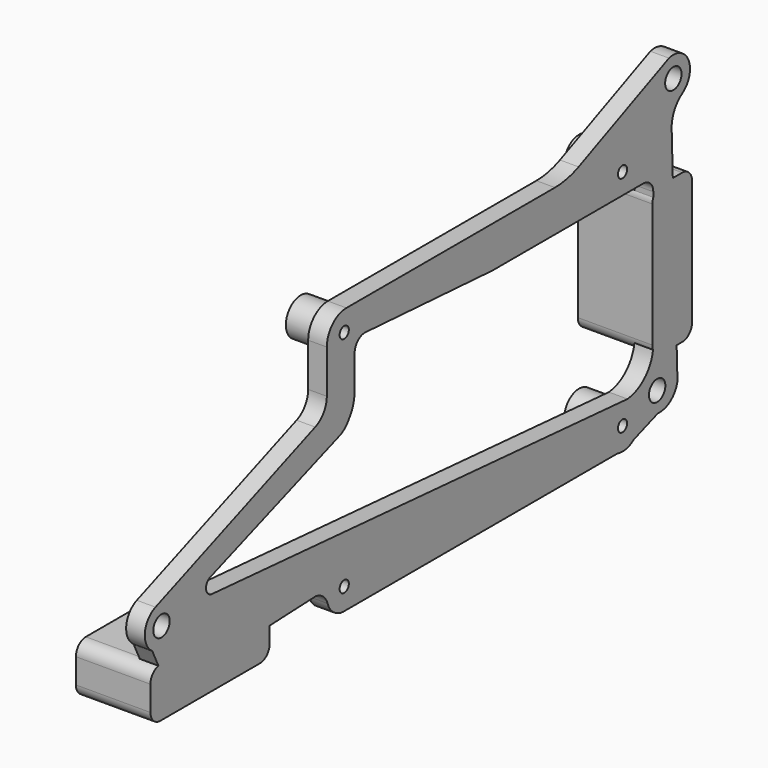
from build123d import *

# Parameters (mm, degrees)
CYLINDER003_R            = 2.65
CYLINDER003_DEPTH        = 9
CLONE009_PLACEMENT_ANGLE = 90
BOX002_W                 = 12
BOX002_H                 = 24
BOX002_DEPTH             = 8
FILLET_R                 = 2
CYLINDER002_R            = 0.925
CYLINDER002_DEPTH        = 7
CYLINDER001_R            = 3
CYLINDER001_DEPTH        = 7
SKETCH002_R              = 1.65
EXTRUDE002_DEPTH         = 3
CLONE010_PLACEMENT_ANGLE = 90


with BuildPart() as insert001:
    # Cylinder003 → Cylinder003 (new body)
    with BuildSketch(Plane(origin=(24, -35, 3), x_dir=(0, 0, 1), z_dir=(-1, 0, 0))):
        Circle(CYLINDER003_R)
    extrude(amount=CYLINDER003_DEPTH)


with BuildPart() as insert002:
    # Clone006 base: copy of insert001
    add(insert001.part)


with BuildPart() as insert002_1:
    # Clone006 placement: moved
    add(insert002.part.moved(Location((0, -16, 0))))


with BuildPart() as obj1:
    # Fusion002 base: copy of insert001
    add(insert001.part)

    # Fusion002: union insert002
    add(insert002_1.part)


with BuildPart() as obj1_1:
    # Fusion002 placement: moved
    add(obj1.part.moved(Location((0, 0, -3))))


with BuildPart() as insertsfusion003:
    # Clone009 base: copy of obj1
    add(obj1_1.part)


with BuildPart() as insertsfusion003_1:
    # Clone009 placement: moved
    add(insertsfusion003.part.moved(Location((0, 50, 62))).rotate(Axis((0, 50, 62), (1, 0, 0)), CLONE009_PLACEMENT_ANGLE))

    # Fusion003: union obj1
    add(obj1_1.part)


with BuildPart() as obj2:
    # Box002 → Box002 (new body)
    with BuildSketch(Plane(origin=(15, -55, -1), x_dir=(1, 0, 0), z_dir=(0, 0, 1))):
        with Locations((6, 12)):
            Rectangle(BOX002_W, BOX002_H)
    extrude(amount=BOX002_DEPTH)

    # Fillet
    fillet_edges = [obj2.edges().sort_by_distance(p)[0] for p in [
        (21, -55, -1),
        (21, -55, 7),
        (21, -31, -1),
        (21, -31, 7),
    ]]
    fillet(fillet_edges, radius=FILLET_R)


with BuildPart() as obj2_1:
    # Fillet placement: moved
    add(obj2.part.moved(Location((0, 0, -3))))


with BuildPart() as hole002:
    # Cylinder002 → Cylinder002 (new body)
    with BuildSketch(Plane(origin=(27, -16, 0), x_dir=(0, 0, 1), z_dir=(-1, 0, 0))):
        Circle(CYLINDER002_R)
    extrude(amount=CYLINDER002_DEPTH)


with BuildPart() as hole003:
    # Clone003 base: copy of hole002
    add(hole002.part)


with BuildPart() as hole003_1:
    # Clone003 placement: moved
    add(hole003.part.moved(Location((0, 0, 36))))


with BuildPart() as hole004:
    # Clone004 base: copy of hole003
    add(hole003_1.part)


with BuildPart() as hole004_1:
    # Clone004 placement: moved
    add(hole004.part.moved(Location((0, 56, -36))))


with BuildPart() as hole005:
    # Clone005 base: copy of hole004
    add(hole004_1.part)


with BuildPart() as hole005_1:
    # Clone005 placement: moved
    add(hole005.part.moved(Location((0, 0, 36))))


with BuildPart() as holesfusion001:
    # Fusion base: copy of hole002
    add(hole002.part)

    # Fusion: union hole003, hole004, hole005
    add(hole003_1.part)
    add(hole004_1.part)
    add(hole005_1.part)


with BuildPart() as attach001:
    # Cylinder001 → Cylinder001 (new body)
    with BuildSketch(Plane(origin=(27, 40, 0), x_dir=(0, 0, 1), z_dir=(-1, 0, 0))):
        Circle(CYLINDER001_R)
    extrude(amount=CYLINDER001_DEPTH)


with BuildPart() as attach002:
    # Clone base: copy of attach001
    add(attach001.part)


with BuildPart() as attach002_1:
    # Clone placement: moved
    add(attach002.part.moved(Location((0, 0, 36))))


with BuildPart() as attach003:
    # Clone001 base: copy of attach002
    add(attach002_1.part)


with BuildPart() as attach003_1:
    # Clone001 placement: moved
    add(attach003.part.moved(Location((0, -56, -36))))


with BuildPart() as attach004:
    # Clone002 base: copy of attach003
    add(attach003_1.part)


with BuildPart() as attach004_1:
    # Clone002 placement: moved
    add(attach004.part.moved(Location((0, 0, 36))))


with BuildPart() as obj3:
    # Sketch002 (on Face5 of Extrude001) → Extrude002 (new body)
    with BuildSketch(Plane.YZ.offset(27)):
        with BuildLine():
            Line((-21.840834, 24.960582), (-53.988857, 12.50779))
            ThreePointArc((-53.988857, 12.50779), (-56.115528, 9.746452), (-54.651077, 6.583683))
            add(Edge.make_bspline(
                [(-54.651077, 6.583683), (-53.010517, 3.198744), (-52.696371, 2.249369), (-51.549184, 1.787077), (-52.006912, 2.204484), (-45.648689, -0.330521), (-21.747141, 0.945049), (-21.747141, 0.945049)],
                knots=[0, 0, 0, 0, 0.2, 0.4, 0.6, 0.8, 1, 1, 1, 1], degree=3))
            ThreePointArc((-21.747141, 0.945049), (-20.257929, 0.297113), (-19.355012, -1.052819))
            ThreePointArc((-19.355012, -1.052819), (-18.192035, -2.749458), (-16.278951, -3.505242))
            Line((-16.278951, -3.505242), (38.983907, -3.505242))
            ThreePointArc((38.983907, -3.505242), (40.694219, -3.582907), (42.251751, -2.872069))
            Line((42.251751, -2.872069), (47.13375, -1.117604))
            ThreePointArc((47.13375, -1.117604), (49.660876, -0.395307), (51.055069, 1.832764))
            Line((51.055069, 1.832764), (49.885408, 38.110058))
            ThreePointArc((49.885408, 38.110058), (50.422789, 40.457526), (52.04587, 42.236569))
            ThreePointArc((52.04587, 42.236569), (53.292041, 46.426402), (49.345321, 48.305506))
            Line((49.345321, 48.305506), (31.159741, 40.29296))
            ThreePointArc((31.159741, 40.29296), (28.834741, 39.544977), (26.405518, 39.292031))
            Line((26.405518, 39.292031), (-15.565081, 39.292031))
            ThreePointArc((-15.565081, 39.292031), (-18.351405, 38.137898), (-19.505538, 35.351575))
            Line((-19.505538, 35.351575), (-19.505538, 28.369553))
            ThreePointArc((-19.505538, 28.369553), (-20.14535, 26.303476), (-21.840834, 24.960582))
        make_face()
        with Locations((-52.774566, 9.372986)):
            Circle(SKETCH002_R, mode=Mode.SUBTRACT)
        with Locations((50.220626, 45.059686)):
            Circle(SKETCH002_R, mode=Mode.SUBTRACT)
        with Locations((46.966619, 2.182986)):
            Circle(SKETCH002_R, mode=Mode.SUBTRACT)
        with BuildLine():
            ThreePointArc((-42.901854, 12.302255), (-43.81194, 10.903698), (-42.6099, 9.746408))
            Line((-42.6099, 9.746408), (41.00829, 3.39546))
            ThreePointArc((41.00829, 3.39546), (44.698125, 5.221862), (46.188436, 9.059779))
            Line((46.188436, 9.059779), (46.188436, 30.650335))
            ThreePointArc((46.188436, 30.650335), (45.602859, 32.064042), (44.189151, 32.649619))
            Line((44.189151, 32.649619), (13.812123, 32.649619))
            Line((13.812123, 32.649619), (-11.694611, 34.281909))
            ThreePointArc((-11.694611, 34.281909), (-13.16559, 33.801037), (-13.900901, 32.439297))
            ThreePointArc((-13.900901, 32.439297), (-13.932701, 32.072334), (-13.943313, 31.704149))
            Line((-13.943313, 31.704149), (-13.943313, 26.615805))
            ThreePointArc((-13.943313, 26.615805), (-14.202233, 24.971619), (-14.953931, 23.48658))
            Line((-14.953931, 23.48658), (-15.353167, 22.932962))
            ThreePointArc((-15.353167, 22.932962), (-16.05756, 22.212579), (-16.942805, 21.731473))
            Line((-16.942805, 21.731473), (-42.901854, 12.302255))
        make_face(mode=Mode.SUBTRACT)
    extrude(amount=-EXTRUDE002_DEPTH)

    # Fusion001: union attach004, attach003, attach002, attach001
    add(attach004_1.part)
    add(attach003_1.part)
    add(attach002_1.part)
    add(attach001.part)

    # Cut001: cut holesFusion001
    add(holesfusion001.part, mode=Mode.SUBTRACT)


with BuildPart() as obj4:
    # Clone010 base: copy of obj2
    add(obj2_1.part)


with BuildPart() as obj4_1:
    # Clone010 placement: moved
    add(obj4.part.moved(Location((0, 50, 62))).rotate(Axis((0, 50, 62), (1, 0, 0)), CLONE010_PLACEMENT_ANGLE))

    # Fusion004: union obj2, obj3
    add(obj2_1.part)
    add(obj3.part)

    # Cut002: cut insertsFusion003
    add(insertsfusion003_1.part, mode=Mode.SUBTRACT)


solid = obj4_1.part
